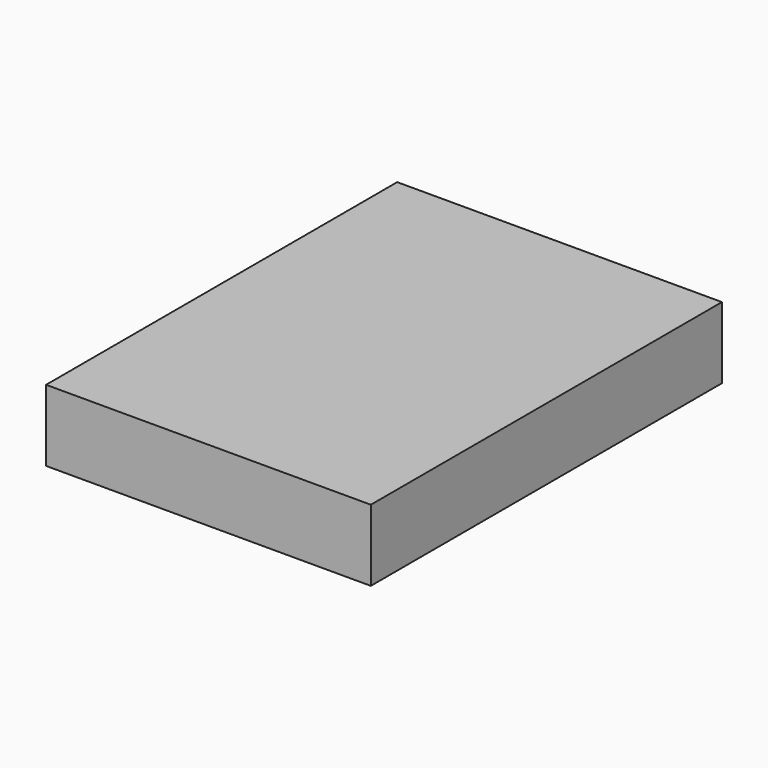
from build123d import *

# Parameters (mm, degrees)
F0_W     = 230.937466
F0_H     = 312.117503
F1_DEPTH = 50.8
F2_R     = 47.330241
F3_DEPTH = 25.4


with BuildPart() as f1:
    # F0 (on Top) → F1 (new body)
    with BuildSketch(Plane.XY):
        with Locations((0, 11.051022)):
            Rectangle(F0_W, F0_H)
    extrude(amount=F1_DEPTH)

    # F2 (on face) → F3 (cut)
    with BuildSketch(Plane(origin=(0, 0, 0), x_dir=(1, 0, 0), z_dir=(0, 0, -1))):
        Circle(F2_R)
    extrude(amount=-F3_DEPTH, mode=Mode.SUBTRACT)


solid = f1.part
